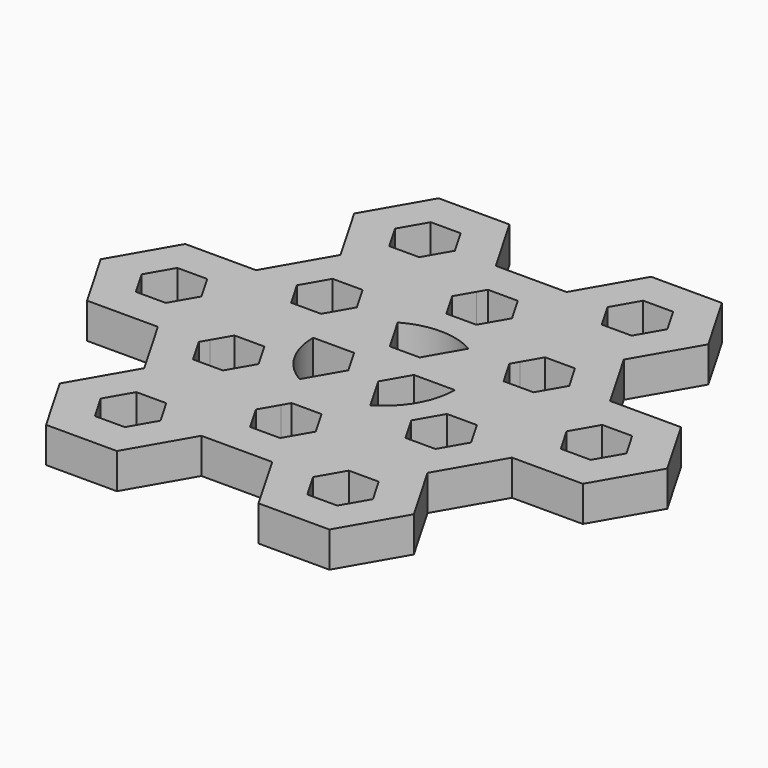
from build123d import *

# Parameters (mm, degrees)
F1_DEPTH = 5


with BuildPart() as f1:
    # F0 (on Top) → F1 (new body)
    with BuildSketch(Plane.XY):
        with BuildLine():
            Line((-11.351928, -16.06705), (-6.351928, -7.406796))
            ThreePointArc((-6.351928, -7.406796), (-9.836197, -8.995155), (-13.559318, -9.890362))
            Line((-13.559318, -9.890362), (-14.238679, -11.06705))
            Line((-14.238679, -11.06705), (-18.465176, -11.06705))
            Line((-18.465176, -11.06705), (-19.144538, -9.890362))
            ThreePointArc((-19.144538, -9.890362), (-22.867658, -8.995155), (-26.351928, -7.406796))
            Line((-26.351928, -7.406796), (-21.351928, -16.06705))
            Line((-21.351928, -16.06705), (-11.351928, -16.06705))
        make_face()
        Polygon((-21.351928, 18.573966), (-26.351928, 9.913712), (-20.578425, 9.913712), (-18.465176, 13.573966), align=None)
        with BuildLine():
            Line((-41.351928, 18.573966), (-36.351928, 9.913712))
            ThreePointArc((-36.351928, 9.913712), (-35.985352, 13.725357), (-34.899064, 17.397277))
            Line((-34.899064, 17.397277), (-35.578425, 18.573966))
            Line((-35.578425, 18.573966), (-33.465176, 22.23422))
            Line((-33.465176, 22.23422), (-32.106454, 22.23422))
            ThreePointArc((-32.106454, 22.23422), (-29.469622, 25.010934), (-26.351928, 27.23422))
            Line((-26.351928, 27.23422), (-36.351928, 27.23422))
            Line((-36.351928, 27.23422), (-41.351928, 18.573966))
        make_face()
        Polygon((-36.351928, 27.23422), (-26.351928, 27.23422), (-21.351928, 35.894474), (-26.351928, 44.554728), (-36.351928, 44.554728), (-41.351928, 35.894474), align=None)
        Polygon((-33.465176, 39.554728), (-29.238679, 39.554728), (-27.12543, 35.894474), (-29.238679, 32.23422), (-33.465176, 32.23422), (-35.578425, 35.894474), align=None, mode=Mode.SUBTRACT)
        Polygon((-41.351928, 1.253458), (-36.351928, 9.913712), (-41.351928, 18.573966), (-51.351928, 18.573966), (-56.351928, 9.913712), (-51.351928, 1.253458), align=None)
        Polygon((-50.578425, 9.913712), (-48.465176, 13.573966), (-44.238679, 13.573966), (-42.12543, 9.913712), (-44.238679, 6.253458), (-48.465176, 6.253458), align=None, mode=Mode.SUBTRACT)
        with BuildLine():
            ThreePointArc((-11.351928, 18.573966), (-7.691674, 14.913712), (-6.351928, 9.913712))
            Line((-6.351928, 9.913712), (-1.351928, 9.913712))
            ThreePointArc((-1.351928, 9.913712), (-1.567949, 12.450242), (-2.209792, 14.913712))
            Line((-2.209792, 14.913712), (-3.465176, 14.913712))
            Line((-3.465176, 14.913712), (-5.578425, 18.573966))
            Line((-5.578425, 18.573966), (-4.950733, 19.661161))
            ThreePointArc((-4.950733, 19.661161), (-6.763239, 21.448748), (-8.851928, 22.904093))
            Line((-8.851928, 22.904093), (-11.351928, 18.573966))
        make_face()
        Polygon((-11.351928, 35.894474), (-6.351928, 27.23422), (3.648072, 27.23422), (8.648072, 35.894474), (3.648072, 44.554728), (-6.351928, 44.554728), align=None)
        Polygon((-5.578425, 35.894474), (-3.465176, 39.554728), (0.761321, 39.554728), (2.87457, 35.894474), (0.761321, 32.23422), (-3.465176, 32.23422), align=None, mode=Mode.SUBTRACT)
        Polygon((8.648072, 18.573966), (3.648072, 9.913712), (8.648072, 1.253458), (18.648072, 1.253458), (23.648072, 9.913712), (18.648072, 18.573966), align=None)
        Polygon((15.761321, 13.573966), (17.87457, 9.913712), (15.761321, 6.253458), (11.534824, 6.253458), (9.421575, 9.913712), (11.534824, 13.573966), align=None, mode=Mode.SUBTRACT)
        Polygon((-12.12543, 9.913712), (-6.351928, 9.913712), (-11.351928, 18.573966), (-14.238679, 13.573966), align=None)
        Polygon((3.648072, -7.406796), (-6.351928, -7.406796), (-11.351928, -16.06705), (-6.351928, -24.727304), (3.648072, -24.727304), (8.648072, -16.06705), align=None)
        Polygon((0.761321, -12.406796), (2.874569, -16.06705), (0.761321, -19.727304), (-3.465176, -19.727304), (-5.578425, -16.06705), (-3.465176, -12.406796), align=None, mode=Mode.SUBTRACT)
        with BuildLine():
            Line((-31.351928, 9.913712), (-26.351928, 9.913712))
            ThreePointArc((-26.351928, 9.913712), (-25.012182, 14.913712), (-21.351928, 18.573966))
            Line((-21.351928, 18.573966), (-23.851928, 22.904093))
            ThreePointArc((-23.851928, 22.904093), (-25.940616, 21.448748), (-27.753123, 19.661161))
            Line((-27.753123, 19.661161), (-27.12543, 18.573966))
            Line((-27.12543, 18.573966), (-29.238679, 14.913712))
            Line((-29.238679, 14.913712), (-30.494063, 14.913712))
            ThreePointArc((-30.494063, 14.913712), (-31.135906, 12.450242), (-31.351928, 9.913712))
        make_face()
        Polygon((-21.351928, -16.06705), (-26.351928, -7.406796), (-36.351928, -7.406796), (-41.351928, -16.06705), (-36.351928, -24.727304), (-26.351928, -24.727304), align=None)
        Polygon((-33.465176, -19.727304), (-35.578425, -16.06705), (-33.465176, -12.406796), (-29.238679, -12.406796), (-27.12543, -16.06705), (-29.238679, -19.727304), align=None, mode=Mode.SUBTRACT)
        with BuildLine():
            Line((-36.351928, -7.406796), (-26.351928, -7.406796))
            ThreePointArc((-26.351928, -7.406796), (-29.469622, -5.18351), (-32.106454, -2.406796))
            Line((-32.106454, -2.406796), (-33.465176, -2.406796))
            Line((-33.465176, -2.406796), (-35.578425, 1.253458))
            Line((-35.578425, 1.253458), (-34.899064, 2.430146))
            ThreePointArc((-34.899064, 2.430146), (-35.985352, 6.102066), (-36.351928, 9.913712))
            Line((-36.351928, 9.913712), (-41.351928, 1.253458))
            Line((-41.351928, 1.253458), (-36.351928, -7.406796))
        make_face()
        with BuildLine():
            ThreePointArc((2.195208, 17.397277), (3.281497, 13.725357), (3.648072, 9.913712))
            Line((3.648072, 9.913712), (8.648072, 18.573966))
            Line((8.648072, 18.573966), (3.648072, 27.23422))
            Line((3.648072, 27.23422), (-6.351928, 27.23422))
            ThreePointArc((-6.351928, 27.23422), (-3.234234, 25.010934), (-0.597402, 22.23422))
            Line((-0.597402, 22.23422), (0.761321, 22.23422))
            Line((0.761321, 22.23422), (2.87457, 18.573966))
            Line((2.87457, 18.573966), (2.195208, 17.397277))
        make_face()
        with BuildLine():
            ThreePointArc((-13.559318, 29.717785), (-9.836197, 28.822579), (-6.351928, 27.23422))
            Line((-6.351928, 27.23422), (-11.351928, 35.894474))
            Line((-11.351928, 35.894474), (-21.351928, 35.894474))
            Line((-21.351928, 35.894474), (-26.351928, 27.23422))
            ThreePointArc((-26.351928, 27.23422), (-22.867658, 28.822579), (-19.144538, 29.717785))
            Line((-19.144538, 29.717785), (-18.465176, 30.894474))
            Line((-18.465176, 30.894474), (-14.238679, 30.894474))
            Line((-14.238679, 30.894474), (-13.559318, 29.717785))
        make_face()
        with BuildLine():
            ThreePointArc((-0.597402, -2.406796), (-3.234234, -5.18351), (-6.351928, -7.406796))
            Line((-6.351928, -7.406796), (3.648072, -7.406796))
            Line((3.648072, -7.406796), (8.648072, 1.253458))
            Line((8.648072, 1.253458), (3.648072, 9.913712))
            ThreePointArc((3.648072, 9.913712), (3.281497, 6.102066), (2.195208, 2.430146))
            Line((2.195208, 2.430146), (2.87457, 1.253458))
            Line((2.87457, 1.253458), (0.761321, -2.406796))
            Line((0.761321, -2.406796), (-0.597402, -2.406796))
        make_face()
        with BuildLine():
            Line((-26.351928, 27.23422), (-23.851928, 22.904093))
            ThreePointArc((-23.851928, 22.904093), (-21.547218, 23.985278), (-19.092869, 24.661161))
            Line((-19.092869, 24.661161), (-20.578425, 27.23422))
            Line((-20.578425, 27.23422), (-19.144538, 29.717785))
            ThreePointArc((-19.144538, 29.717785), (-22.867658, 28.822579), (-26.351928, 27.23422))
        make_face()
        with BuildLine():
            ThreePointArc((-30.494063, 4.913712), (-31.135906, 7.377182), (-31.351928, 9.913712))
            Line((-31.351928, 9.913712), (-36.351928, 9.913712))
            ThreePointArc((-36.351928, 9.913712), (-35.985352, 6.102066), (-34.899064, 2.430146))
            Line((-34.899064, 2.430146), (-33.465176, 4.913712))
            Line((-33.465176, 4.913712), (-30.494063, 4.913712))
        make_face()
        with BuildLine():
            ThreePointArc((-6.351928, 9.913712), (-7.691674, 4.913712), (-11.351928, 1.253458))
            Line((-11.351928, 1.253458), (-8.851928, -3.076669))
            ThreePointArc((-8.851928, -3.076669), (-6.763239, -1.621324), (-4.950733, 0.166263))
            Line((-4.950733, 0.166263), (-5.578425, 1.253458))
            Line((-5.578425, 1.253458), (-3.465176, 4.913712))
            Line((-3.465176, 4.913712), (-2.209792, 4.913712))
            ThreePointArc((-2.209792, 4.913712), (-1.567949, 7.377182), (-1.351928, 9.913712))
            Line((-1.351928, 9.913712), (-6.351928, 9.913712))
        make_face()
        with BuildLine():
            Line((-36.351928, 9.913712), (-31.351928, 9.913712))
            ThreePointArc((-31.351928, 9.913712), (-31.135906, 12.450242), (-30.494063, 14.913712))
            Line((-30.494063, 14.913712), (-33.465176, 14.913712))
            Line((-33.465176, 14.913712), (-34.899064, 17.397277))
            ThreePointArc((-34.899064, 17.397277), (-35.985352, 13.725357), (-36.351928, 9.913712))
        make_face()
        with BuildLine():
            Line((-8.851928, -3.076669), (-11.351928, 1.253458))
            ThreePointArc((-11.351928, 1.253458), (-16.351928, -0.086288), (-21.351928, 1.253458))
            Line((-21.351928, 1.253458), (-23.851928, -3.076669))
            ThreePointArc((-23.851928, -3.076669), (-21.547218, -4.157854), (-19.092869, -4.833737))
            Line((-19.092869, -4.833737), (-18.465176, -3.746542))
            Line((-18.465176, -3.746542), (-14.238679, -3.746542))
            Line((-14.238679, -3.746542), (-13.610987, -4.833737))
            ThreePointArc((-13.610987, -4.833737), (-11.156638, -4.157854), (-8.851928, -3.076669))
        make_face()
        with BuildLine():
            ThreePointArc((-13.610987, 24.661161), (-11.156638, 23.985278), (-8.851928, 22.904093))
            Line((-8.851928, 22.904093), (-6.351928, 27.23422))
            ThreePointArc((-6.351928, 27.23422), (-9.836197, 28.822579), (-13.559318, 29.717785))
            Line((-13.559318, 29.717785), (-12.12543, 27.23422))
            Line((-12.12543, 27.23422), (-13.610987, 24.661161))
        make_face()
        with BuildLine():
            Line((-23.851928, -3.076669), (-21.351928, 1.253458))
            ThreePointArc((-21.351928, 1.253458), (-25.012182, 4.913712), (-26.351928, 9.913712))
            Line((-26.351928, 9.913712), (-31.351928, 9.913712))
            ThreePointArc((-31.351928, 9.913712), (-31.135906, 7.377182), (-30.494063, 4.913712))
            Line((-30.494063, 4.913712), (-29.238679, 4.913712))
            Line((-29.238679, 4.913712), (-27.12543, 1.253458))
            Line((-27.12543, 1.253458), (-27.753123, 0.166263))
            ThreePointArc((-27.753123, 0.166263), (-25.940616, -1.621324), (-23.851928, -3.076669))
        make_face()
        with BuildLine():
            ThreePointArc((-21.351928, 18.573966), (-16.351928, 19.913712), (-11.351928, 18.573966))
            Line((-11.351928, 18.573966), (-8.851928, 22.904093))
            ThreePointArc((-8.851928, 22.904093), (-11.156638, 23.985278), (-13.610987, 24.661161))
            Line((-13.610987, 24.661161), (-14.238679, 23.573966))
            Line((-14.238679, 23.573966), (-18.465176, 23.573966))
            Line((-18.465176, 23.573966), (-19.092869, 24.661161))
            ThreePointArc((-19.092869, 24.661161), (-21.547218, 23.985278), (-23.851928, 22.904093))
            Line((-23.851928, 22.904093), (-21.351928, 18.573966))
        make_face()
        with BuildLine():
            Line((3.648072, 9.913712), (-1.351928, 9.913712))
            ThreePointArc((-1.351928, 9.913712), (-1.567949, 7.377182), (-2.209792, 4.913712))
            Line((-2.209792, 4.913712), (0.761321, 4.913712))
            Line((0.761321, 4.913712), (2.195208, 2.430146))
            ThreePointArc((2.195208, 2.430146), (3.281497, 6.102066), (3.648072, 9.913712))
        make_face()
        with BuildLine():
            ThreePointArc((-19.092869, -4.833737), (-21.547218, -4.157854), (-23.851928, -3.076669))
            Line((-23.851928, -3.076669), (-26.351928, -7.406796))
            ThreePointArc((-26.351928, -7.406796), (-22.867658, -8.995155), (-19.144538, -9.890362))
            Line((-19.144538, -9.890362), (-20.578425, -7.406796))
            Line((-20.578425, -7.406796), (-19.092869, -4.833737))
        make_face()
        with BuildLine():
            Line((-6.351928, -7.406796), (-8.851928, -3.076669))
            ThreePointArc((-8.851928, -3.076669), (-11.156638, -4.157854), (-13.610987, -4.833737))
            Line((-13.610987, -4.833737), (-12.12543, -7.406796))
            Line((-12.12543, -7.406796), (-13.559318, -9.890362))
            ThreePointArc((-13.559318, -9.890362), (-9.836197, -8.995155), (-6.351928, -7.406796))
        make_face()
        with BuildLine():
            ThreePointArc((-2.209792, 14.913712), (-1.567949, 12.450242), (-1.351928, 9.913712))
            Line((-1.351928, 9.913712), (3.648072, 9.913712))
            ThreePointArc((3.648072, 9.913712), (3.281497, 13.725357), (2.195208, 17.397277))
            Line((2.195208, 17.397277), (0.761321, 14.913712))
            Line((0.761321, 14.913712), (-2.209792, 14.913712))
        make_face()
        with BuildLine():
            Line((-26.351928, -7.406796), (-23.851928, -3.076669))
            ThreePointArc((-23.851928, -3.076669), (-25.940616, -1.621324), (-27.753123, 0.166263))
            Line((-27.753123, 0.166263), (-29.238679, -2.406796))
            Line((-29.238679, -2.406796), (-32.106454, -2.406796))
            ThreePointArc((-32.106454, -2.406796), (-29.469622, -5.18351), (-26.351928, -7.406796))
        make_face()
        with BuildLine():
            Line((-6.351928, 27.23422), (-8.851928, 22.904093))
            ThreePointArc((-8.851928, 22.904093), (-6.763239, 21.448748), (-4.950733, 19.661161))
            Line((-4.950733, 19.661161), (-3.465176, 22.23422))
            Line((-3.465176, 22.23422), (-0.597402, 22.23422))
            ThreePointArc((-0.597402, 22.23422), (-3.234234, 25.010934), (-6.351928, 27.23422))
        make_face()
        with BuildLine():
            ThreePointArc((-27.753123, 19.661161), (-25.940616, 21.448748), (-23.851928, 22.904093))
            Line((-23.851928, 22.904093), (-26.351928, 27.23422))
            ThreePointArc((-26.351928, 27.23422), (-29.469622, 25.010934), (-32.106454, 22.23422))
            Line((-32.106454, 22.23422), (-29.238679, 22.23422))
            Line((-29.238679, 22.23422), (-27.753123, 19.661161))
        make_face()
        Polygon((-21.351928, 1.253458), (-11.351928, 1.253458), (-14.238679, 6.253458), (-18.465176, 6.253458), align=None)
        with BuildLine():
            ThreePointArc((-4.950733, 0.166263), (-6.763239, -1.621324), (-8.851928, -3.076669))
            Line((-8.851928, -3.076669), (-6.351928, -7.406796))
            ThreePointArc((-6.351928, -7.406796), (-3.234234, -5.18351), (-0.597402, -2.406796))
            Line((-0.597402, -2.406796), (-3.465176, -2.406796))
            Line((-3.465176, -2.406796), (-4.950733, 0.166263))
        make_face()
        Polygon((-16.351928, 9.913712), (-12.12543, 9.913712), (-14.238679, 13.573966), align=None)
        Polygon((-18.465176, 13.573966), (-16.351928, 9.913712), (-14.238679, 13.573966), align=None)
        Polygon((-20.578425, 9.913712), (-16.351928, 9.913712), (-18.465176, 13.573966), align=None)
        Polygon((-16.351928, 9.913712), (-14.238679, 6.253458), (-12.12543, 9.913712), align=None)
        Polygon((-20.578425, 9.913712), (-18.465176, 6.253458), (-16.351928, 9.913712), align=None)
        Polygon((-18.465176, 6.253458), (-14.238679, 6.253458), (-16.351928, 9.913712), align=None)
        with BuildLine():
            ThreePointArc((-21.351928, 18.573966), (-25.012182, 14.913712), (-26.351928, 9.913712))
            Line((-26.351928, 9.913712), (-21.351928, 18.573966))
        make_face()
        with BuildLine():
            ThreePointArc((-21.351928, 1.253458), (-16.351928, -0.086288), (-11.351928, 1.253458))
            Line((-11.351928, 1.253458), (-21.351928, 1.253458))
        make_face()
        with BuildLine():
            Line((-11.351928, 18.573966), (-6.351928, 9.913712))
            ThreePointArc((-6.351928, 9.913712), (-7.691674, 14.913712), (-11.351928, 18.573966))
        make_face()
    extrude(amount=F1_DEPTH)


solid = f1.part
